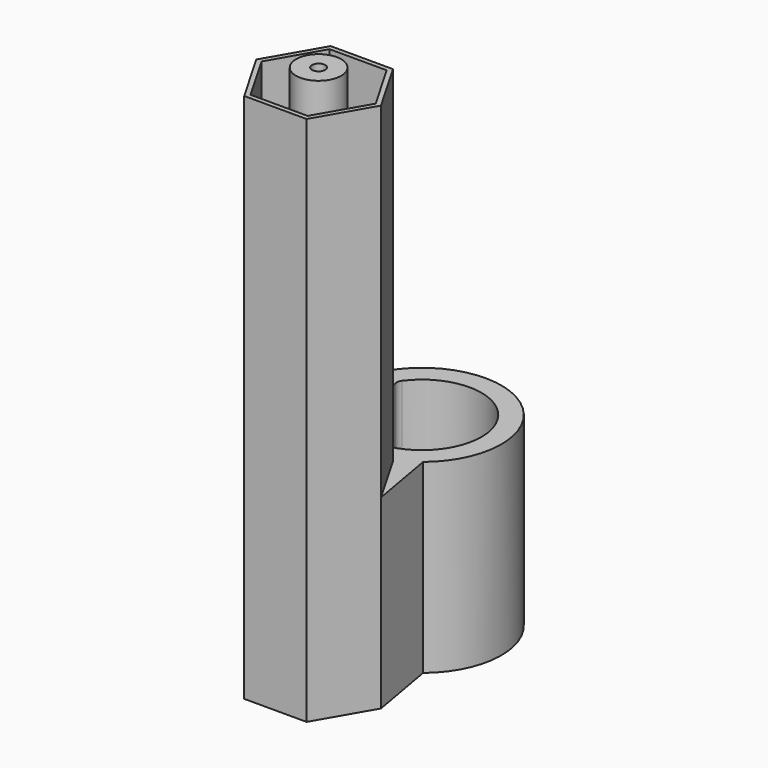
from build123d import *

# Parameters (mm, degrees)
PAD_DEPTH     = 70
PAD001_DEPTH  = 200
PAD002_DEPTH  = 70
SKETCH003_R   = 2.5
PAD003_DEPTH  = 5
SKETCH004_R   = 8.5
SKETCH004_R_2 = 2.5
PAD004_DEPTH  = 205


with BuildPart() as part:
    # Sketch → Pad (new body)
    with BuildSketch(Plane.XY):
        with BuildLine():
            ThreePointArc((-29.848016, -3.015947), (29.920505, -2.182515), (-29.094406, 7.315431))
            ThreePointArc((-29.094406, 7.315431), (-29.072912, 3.034578), (-26.991574, -0.706304))
            Line((-26.991574, -0.706304), (-12.739759, -15.728805))
            ThreePointArc((-12.739759, -15.728805), (-11.4789, -15.911046), (-11.008743, -14.727014))
            Line((-11.008743, -14.727014), (-18.604437, 10.709188))
            ThreePointArc((-18.160969, 13.282665), (-18.684551, 12.047942), (-18.604437, 10.709188))
            ThreePointArc((-20.499669, -9.27435), (22.380035, -2.320351), (-18.160969, 13.282665))
            ThreePointArc((-20.499669, -9.27435), (-21.232479, -7.959372), (-22.173804, -6.784601))
            Line((-22.173804, -6.784601), (-26.991574, -1.706304))
            ThreePointArc((-26.991574, -1.706304), (-28.888073, -1.339771), (-29.848016, -3.015947))
        make_face()
    extrude(amount=PAD_DEPTH)

    # Sketch001 → Pad001 (join)
    with BuildSketch(Plane.XY):
        Polygon((23.5, -48.619546), (11.75, -28.267949), (-11.75, -28.267949), (-23.5, -48.619546), (-11.75, -68.971143), (11.75, -68.971143), align=None)
        Polygon((21.5, -48.619546), (10.75, -30), (-10.75, -30), (-21.5, -48.619546), (-10.75, -67.239092), (10.75, -67.239092), align=None, mode=Mode.SUBTRACT)
    extrude(amount=PAD001_DEPTH)

    # Sketch002 → Pad002 (join)
    with BuildSketch(Plane.XY):
        Polygon((-18.915001, -22.616726), (-23.5, -48.619546), (-11.75, -28.267949), (-6.937376, -28.267949), align=None)
        Polygon((23.5, -48.619546), (19.018119, -23.201534), (10.046046, -28.267949), (11.75, -28.267949), align=None)
    extrude(amount=PAD002_DEPTH)

    # Sketch003 → Pad003 (join)
    with BuildSketch(Plane.XY):
        Polygon((21.5, -48.619546), (10.75, -30), (-10.75, -30), (-21.5, -48.619546), (-10.75, -67.239092), (10.75, -67.239092), align=None)
        with Locations((0, -48.619546)):
            Circle(SKETCH003_R, mode=Mode.SUBTRACT)
    extrude(amount=PAD003_DEPTH)

    # Sketch004 → Pad004 (join)
    with BuildSketch(Plane.XY):
        with Locations((0, -48.619546)):
            Circle(SKETCH004_R)
        with Locations((0, -48.619546)):
            Circle(SKETCH004_R_2, mode=Mode.SUBTRACT)
    extrude(amount=PAD004_DEPTH)


solid = part.part
